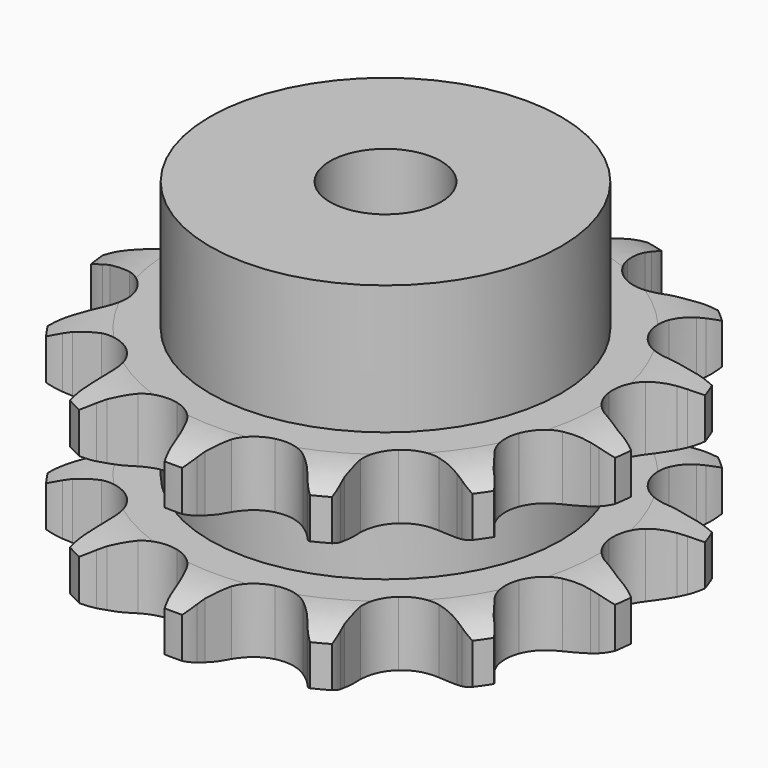
from build123d import *

# Parameters (mm, degrees)
PAD_DEPTH         = 21
SKETCH001_R       = 19
PAD001_DEPTH      = 35
SKETCH002_R       = 6
POCKET_DEPTH      = 0.0010001
POCKET_DEPTH_BACK = 35.001


with BuildPart() as part:
    # Sprocket → Pad (new body)
    with BuildSketch(Plane.XY):
        with BuildLine():
            ThreePointArc((-7.2372479546, 29.362669189), (-6.040670143, 28.2066768924), (-5.1440004444, 26.8052133358))
            Line((-5.1440004444, 26.8052133358), (-4.7587726449, 26.0126805335))
            ThreePointArc((-4.7587726449, 26.0126805335), (-4.1078425073, 24.8549229214), (-3.3235445203, 23.7830136901))
            ThreePointArc((-3.3235445203, 23.7830136901), (-1.8364474105, 22.6299825233), (0, 22.2196173273))
            ThreePointArc((0, 22.2196173273), (1.8364474105, 22.6299825233), (3.3235445203, 23.7830136901))
            ThreePointArc((3.3235445203, 23.7830136901), (4.1078425073, 24.8549229214), (4.7587726449, 26.0126805335))
            Line((4.7587726449, 26.0126805335), (5.1440004444, 26.8052133358))
            ThreePointArc((5.1440004444, 26.8052133358), (6.040670143, 28.2066768924), (7.2372479546, 29.362669189))
            ThreePointArc((7.2372479546, 29.362669189), (7.7595485811, 27.7830114082), (7.9022175793, 26.1253738706))
            Line((7.9022175793, 26.1253738706), (7.8750114977, 25.2445966403))
            ThreePointArc((7.8750114977, 25.2445966403), (7.9133447205, 23.9169508681), (8.1096650408, 22.603340932))
            ThreePointArc((8.1096650408, 22.603340932), (8.8905838361, 20.8912940516), (10.3259710459, 19.6744940501))
            ThreePointArc((10.3259710459, 19.6744940501), (12.1427706869, 19.1844147198), (13.9953700849, 19.5142846282))
            Line((13.9953700849, 19.5142846282), (16.302379324, 20.8215728032))
            ThreePointArc((16.302379324, 20.8215728032), (16.6519058018, 21.0899654904), (17.0117899582, 21.3443014636))
            ThreePointArc((17.0117899582, 21.3443014636), (18.4570441354, 22.1685326279), (20.0537775757, 22.6360355363))
            ThreePointArc((20.0537775757, 22.6360355363), (19.782148238, 20.9945928319), (19.1381327876, 19.4605260966))
            Line((19.1381327876, 19.4605260966), (18.7047254104, 18.6932798872))
            ThreePointArc((18.7047254104, 18.6932798872), (18.1216800388, 17.4998936015), (17.6850480731, 16.2455151662))
            ThreePointArc((17.6850480731, 16.2455151662), (17.580889469, 14.36666188), (18.2863865667, 12.6221812895))
            ThreePointArc((18.2863865667, 12.6221812895), (19.6673315353, 11.3439287013), (21.4610250255, 10.7750681306))
            Line((21.4610250255, 10.7750681306), (24.111307365, 10.8604936708))
            ThreePointArc((24.111307365, 10.8604936708), (24.5455259918, 10.9357105395), (24.9823834068, 10.9936673528))
            ThreePointArc((24.9823834068, 10.9936673528), (26.6451317478, 11.0518446981), (28.2762284285, 10.7237589361))
            ThreePointArc((28.2762284285, 10.7237589361), (27.2728961343, 9.3965660501), (25.9897324137, 8.3375063185))
            Line((25.9897324137, 8.3375063185), (25.2494121479, 7.8595579904))
            ThreePointArc((25.2494121479, 7.8595579904), (24.1785568503, 7.0738216073), (23.2089997198, 6.1660376554))
            ThreePointArc((23.2089997198, 6.1660376554), (22.2436251973, 4.5508006088), (22.0576112998, 2.6782789092))
            ThreePointArc((22.0576112998, 2.6782789092), (22.6863437459, 0.9046853264), (24.0102177661, -0.4325866221))
            Line((24.0102177661, -0.4325866221), (26.3966254614, -1.5885936784))
            ThreePointArc((26.3966254614, -1.5885936784), (26.8160619828, -1.7237839064), (27.2298138873, -1.8754834605))
            ThreePointArc((27.2298138873, -1.8754834605), (28.7291407855, -2.5966876628), (30.0209361137, -3.6452016011))
            ThreePointArc((30.0209361137, -3.6452016011), (28.5157522003, -4.3541007728), (26.8873975541, -4.6955356792))
            Line((26.8873975541, -4.6955356792), (26.0097628508, -4.774693924))
            ThreePointArc((26.0097628508, -4.774693924), (24.6964176705, -4.9727776683), (23.4160492295, -5.3260047733))
            ThreePointArc((23.4160492295, -5.3260047733), (21.8106144576, -6.3075942388), (20.7757031072, -7.8791848925))
            ThreePointArc((20.7757031072, -7.8791848925), (20.5081880045, -9.7418105541), (21.058958971, -11.5411409929))
            Line((21.058958971, -11.5411409929), (22.6347947784, -13.6737533605))
            ThreePointArc((22.6347947784, -13.6737533605), (22.943361342, -13.9883802332), (23.2392221611, -14.314983615))
            ThreePointArc((23.2392221611, -14.314983615), (24.2316498928, -15.6503501737), (24.8882091268, -17.1790903809))
            ThreePointArc((24.8882091268, -17.1790903809), (23.2259930892, -17.1072955814), (21.6254839432, -16.6528870402))
            Line((21.6254839432, -16.6528870402), (20.8115903361, -16.3151210018))
            ThreePointArc((20.8115903361, -16.3151210018), (19.5566268265, -15.8801735086), (18.2587640546, -15.5979236939))
            ThreePointArc((18.2587640546, -15.5979236939), (16.381054792, -15.7209952611), (14.7343317071, -16.6316223897))
            ThreePointArc((14.7343317071, -16.6316223897), (13.6318535416, -18.1565750382), (13.2833464637, -20.005759048))
            Line((13.2833464637, -20.005759048), (13.6876053905, -22.6264209343))
            ThreePointArc((13.6876053905, -22.6264209343), (13.8146131153, -23.0484072268), (13.9248047007, -23.4750935375))
            ThreePointArc((13.9248047007, -23.4750935375), (14.1829800328, -25.1187060669), (14.0538933644, -26.777456585))
            ThreePointArc((14.0538933644, -26.777456585), (12.615438865, -25.9414151374), (11.4094325761, -24.7952626693))
            Line((11.4094325761, -24.7952626693), (10.8457332823, -24.1179504766))
            ThreePointArc((10.8457332823, -24.1179504766), (9.9366484594, -23.1496129749), (8.9186160769, -22.2965462715))
            ThreePointArc((8.9186160769, -22.2965462715), (7.1987928867, -21.5329057276), (5.3175024809, -21.5739556302))
            ThreePointArc((5.3175024809, -21.5739556302), (3.632625714, -22.4118869915), (2.4646793632, -23.8872988008))
            Line((2.4646793632, -23.8872988008), (1.6047505612, -26.39564815))
            ThreePointArc((1.6047505612, -26.39564815), (1.521103508, -26.8283218882), (1.4203822955, -27.2573424362))
            ThreePointArc((1.4203822955, -27.2573424362), (0.8851603707, -28.8326691135), (0, -30.2414301887))
            ThreePointArc((0, -30.2414301887), (-0.8851603707, -28.8326691135), (-1.4203822955, -27.2573424362))
            Line((-1.4203822955, -27.2573424362), (-1.6047505612, -26.39564815))
            ThreePointArc((-1.6047505612, -26.39564815), (-1.9596963201, -25.1157550917), (-2.4646793632, -23.8872988008))
            ThreePointArc((-2.4646793632, -23.8872988008), (-3.632625714, -22.4118869915), (-5.3175024809, -21.5739556302))
            ThreePointArc((-5.3175024809, -21.5739556302), (-7.1987928867, -21.5329057276), (-8.9186160769, -22.2965462715))
            Line((-8.9186160769, -22.2965462715), (-10.8457332823, -24.1179504766))
            ThreePointArc((-10.8457332823, -24.1179504766), (-11.1208725817, -24.4621913213), (-11.4094325761, -24.7952626693))
            ThreePointArc((-11.4094325761, -24.7952626693), (-12.615438865, -25.9414151374), (-14.0538933644, -26.777456585))
            ThreePointArc((-14.0538933644, -26.777456585), (-14.1829800328, -25.1187060669), (-13.9248047007, -23.4750935375))
            Line((-13.9248047007, -23.4750935375), (-13.6876053905, -22.6264209343))
            ThreePointArc((-13.6876053905, -22.6264209343), (-13.4070982895, -21.3281803947), (-13.2833464637, -20.005759048))
            ThreePointArc((-13.2833464637, -20.005759048), (-13.6318535416, -18.1565750382), (-14.7343317071, -16.6316223897))
            ThreePointArc((-14.7343317071, -16.6316223897), (-16.381054792, -15.7209952611), (-18.2587640546, -15.5979236939))
            Line((-18.2587640546, -15.5979236939), (-20.8115903361, -16.3151210018))
            ThreePointArc((-20.8115903361, -16.3151210018), (-21.2151907839, -16.4920675241), (-21.6254839432, -16.6528870402))
            ThreePointArc((-21.6254839432, -16.6528870402), (-23.2259930892, -17.1072955814), (-24.8882091268, -17.1790903809))
            ThreePointArc((-24.8882091268, -17.1790903809), (-24.2316498928, -15.6503501737), (-23.2392221611, -14.314983615))
            Line((-23.2392221611, -14.314983615), (-22.6347947784, -13.6737533605))
            ThreePointArc((-22.6347947784, -13.6737533605), (-21.7830956139, -12.6545766017), (-21.058958971, -11.5411409929))
            ThreePointArc((-21.058958971, -11.5411409929), (-20.5081880045, -9.7418105541), (-20.7757031072, -7.8791848925))
            ThreePointArc((-20.7757031072, -7.8791848925), (-21.8106144576, -6.3075942388), (-23.4160492295, -5.3260047733))
            Line((-23.4160492295, -5.3260047733), (-26.0097628508, -4.774693924))
            ThreePointArc((-26.0097628508, -4.774693924), (-26.4493644484, -4.7438098081), (-26.8873975541, -4.6955356792))
            ThreePointArc((-26.8873975541, -4.6955356792), (-28.5157522003, -4.3541007728), (-30.0209361137, -3.6452016011))
            ThreePointArc((-30.0209361137, -3.6452016011), (-28.7291407855, -2.5966876628), (-27.2298138873, -1.8754834605))
            Line((-27.2298138873, -1.8754834605), (-26.3966254614, -1.5885936784))
            ThreePointArc((-26.3966254614, -1.5885936784), (-25.1688482479, -1.0819618134), (-24.0102177661, -0.4325866221))
            ThreePointArc((-24.0102177661, -0.4325866221), (-22.6863437459, 0.9046853264), (-22.0576112998, 2.6782789092))
            ThreePointArc((-22.0576112998, 2.6782789092), (-22.2436251973, 4.5508006088), (-23.2089997198, 6.1660376554))
            Line((-23.2089997198, 6.1660376554), (-25.2494121479, 7.8595579904))
            ThreePointArc((-25.2494121479, 7.8595579904), (-25.6243074671, 8.0911975659), (-25.9897324137, 8.3375063185))
            ThreePointArc((-25.9897324137, 8.3375063185), (-27.2728961343, 9.3965660501), (-28.2762284285, 10.7237589361))
            ThreePointArc((-28.2762284285, 10.7237589361), (-26.6451317478, 11.0518446981), (-24.9823834068, 10.9936673528))
            Line((-24.9823834068, 10.9936673528), (-24.111307365, 10.8604936708))
            ThreePointArc((-24.111307365, 10.8604936708), (-22.7887210658, 10.7385173873), (-21.4610250255, 10.7750681306))
            ThreePointArc((-21.4610250255, 10.7750681306), (-19.6673315353, 11.3439287013), (-18.2863865667, 12.6221812895))
            ThreePointArc((-18.2863865667, 12.6221812895), (-17.580889469, 14.36666188), (-17.6850480731, 16.2455151662))
            Line((-17.6850480731, 16.2455151662), (-18.7047254104, 18.6932798872))
            ThreePointArc((-18.7047254104, 18.6932798872), (-18.9290304515, 19.072609087), (-19.1381327876, 19.4605260966))
            ThreePointArc((-19.1381327876, 19.4605260966), (-19.782148238, 20.9945928319), (-20.0537775757, 22.6360355363))
            ThreePointArc((-20.0537775757, 22.6360355363), (-18.4570441354, 22.1685326279), (-17.0117899582, 21.3443014636))
            Line((-17.0117899582, 21.3443014636), (-16.302379324, 20.8215728032))
            ThreePointArc((-16.302379324, 20.8215728032), (-15.1879725214, 20.0989316677), (-13.9953700849, 19.5142846282))
            ThreePointArc((-13.9953700849, 19.5142846282), (-12.1427706869, 19.1844147198), (-10.3259710459, 19.6744940501))
            ThreePointArc((-10.3259710459, 19.6744940501), (-8.8905838361, 20.8912940516), (-8.1096650408, 22.603340932))
            Line((-8.1096650408, 22.603340932), (-7.8750114977, 25.2445966403))
            ThreePointArc((-7.8750114977, 25.2445966403), (-7.897340679, 25.6847157161), (-7.9022175793, 26.1253738706))
            ThreePointArc((-7.9022175793, 26.1253738706), (-7.7595485811, 27.7830114082), (-7.2372479546, 29.362669189))
        make_face()
    extrude(amount=PAD_DEPTH)

    # Sketch → Groove (revolve, cut)
    with BuildSketch(Plane.XZ):
        with BuildLine():
            ThreePointArc((23.0334313734, 0), (25.9403197441, 0.3291673517), (28.7, 1.3))
            Line((28.7, 1.3), (28.7, 5.7))
            ThreePointArc((28.7, 5.7), (25.9403197441, 6.6708326483), (23.0334313734, 7))
            Line((19, 7), (23.0334313734, 7))
            Line((19, 14), (19, 7))
            Line((23.0334313734, 14), (19, 14))
            ThreePointArc((23.0334313734, 14), (25.9403197441, 14.3291673517), (28.7, 15.3))
            Line((28.7, 15.3), (28.7, 19.7))
            ThreePointArc((28.7, 19.7), (25.9403197441, 20.6708326483), (23.0334313734, 21))
            Line((23.0334313734, 21), (33.0334313734, 21))
            Line((33.0334313734, 21), (33.0334313734, 0))
            Line((23.0334313734, 0), (33.0334313734, 0))
        make_face()
    revolve(axis=Axis((0, 0, 0), (0, 0, 1)), mode=Mode.SUBTRACT)

    # Sketch001 → Pad001 (join)
    with BuildSketch(Plane.XY):
        Circle(SKETCH001_R)
    extrude(amount=PAD001_DEPTH)

    # Sketch002 → Pocket (cut, two sides)
    with BuildSketch(Plane.XY) as pocket_sk:
        Circle(SKETCH002_R)
    extrude(amount=-POCKET_DEPTH, mode=Mode.SUBTRACT)
    extrude(pocket_sk.sketch, amount=POCKET_DEPTH_BACK, mode=Mode.SUBTRACT)


solid = part.part
